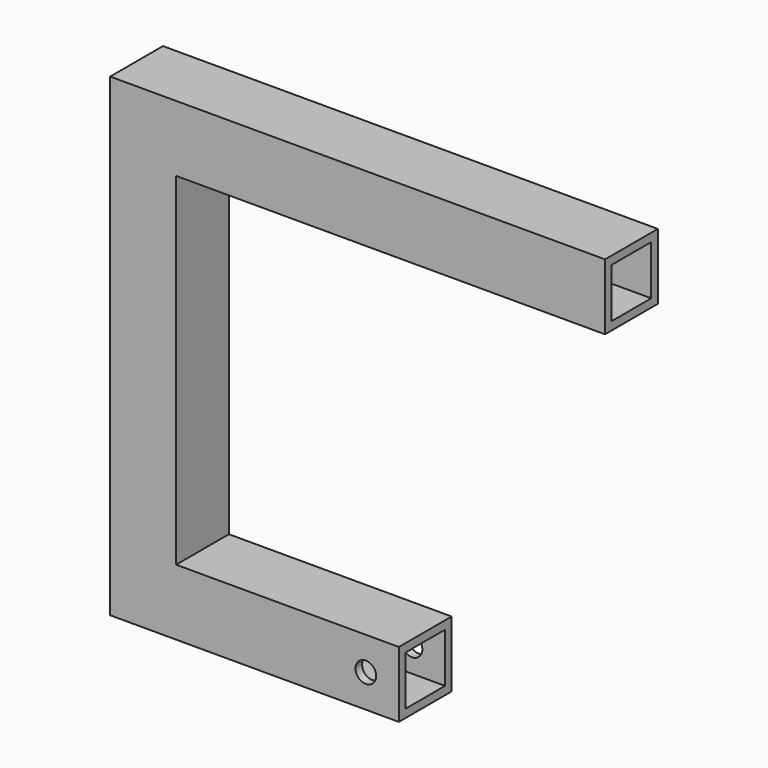
from build123d import *

# Parameters (mm, degrees)
F1_DEPTH = 25.4
F2_T     = -3.175
F3_R     = 3.96875
F4_DEPTH = 25.4


with BuildPart() as f1:
    # F0 (on Front) → F1 (new body)
    with BuildSketch(Plane.XZ):
        Polygon((0, 182.5625), (0, 0), (111.125, 0), (111.125, 25.4), (25.4, 25.4), (25.4, 157.1625), (190.5, 157.1625), (190.5, 182.5625), align=None)
    extrude(amount=F1_DEPTH)

    # F2
    f2_openings = [f1.faces().sort_by_distance(p)[0] for p in [
        (190.5, -12.7, 169.8625),
        (111.125, -12.7, 12.7),
    ]]
    offset(amount=F2_T, openings=f2_openings, kind=Kind.INTERSECTION)

    # F3 (on face) → F4 (cut)
    with BuildSketch(Plane.XZ.offset(25.4)):
        with Locations((98.425, 12.7)):
            Circle(F3_R)
    extrude(amount=-F4_DEPTH, mode=Mode.SUBTRACT)


solid = f1.part
